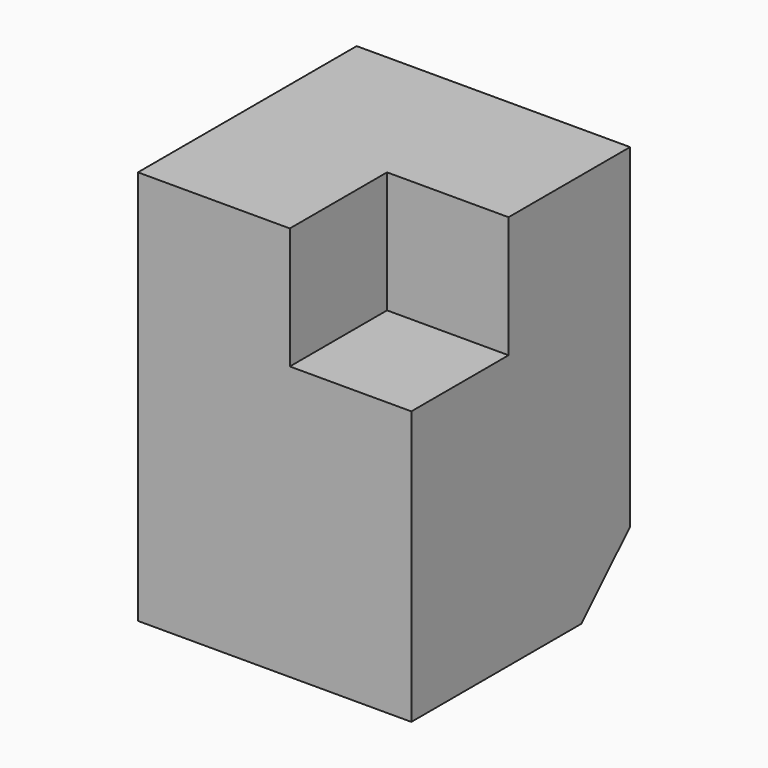
from build123d import *

# Parameters (mm, degrees)
F0_W     = 45
F0_H     = 45
F1_DEPTH = 65
F2_W     = 20
F2_H     = 20
F3_DEPTH = 20
F4_SIZE  = 10


with BuildPart() as f1:
    # F0 (on Top) → F1 (new body)
    with BuildSketch(Plane.XY):
        with Locations((22.5, 22.5)):
            Rectangle(F0_W, F0_H)
    extrude(amount=F1_DEPTH)

    # F2 (on face) → F3 (cut)
    with BuildSketch(Plane.YZ.offset(45)):
        with Locations((10, 55)):
            Rectangle(F2_W, F2_H)
    extrude(amount=-F3_DEPTH, mode=Mode.SUBTRACT)

    # F4
    f4_edges = [f1.edges().sort_by_distance(p)[0] for p in [
        (22.5, 45, 0),
    ]]
    chamfer(f4_edges, length=F4_SIZE)


solid = f1.part
